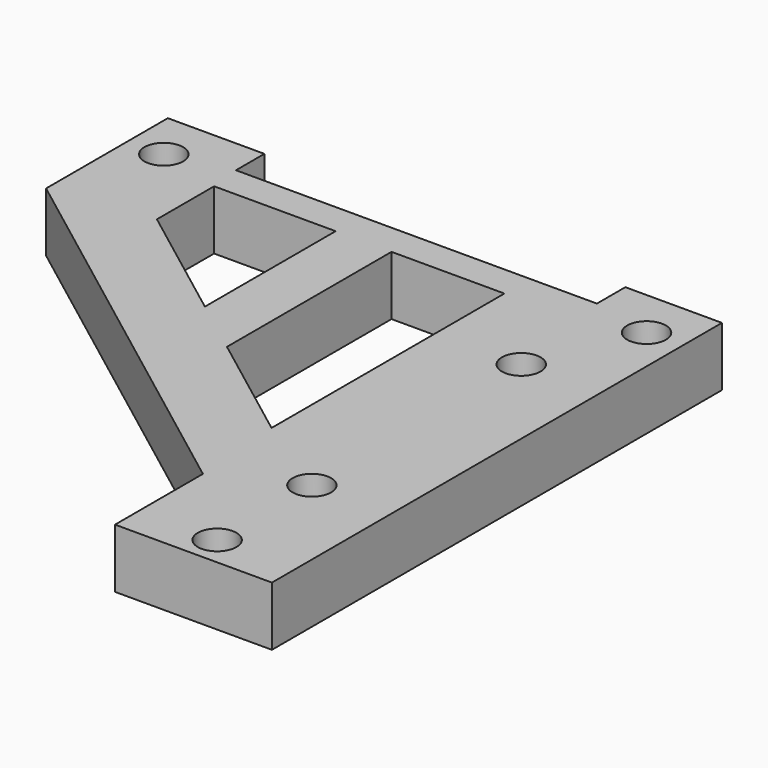
from build123d import *

# Parameters (mm, degrees)
F0_W      = 100.584
F0_H      = 98
F1_DEPTH  = 10
F3_D      = 6.528
F4_W      = 60.96
F4_H      = 6
F5_DEPTH  = 10
F7_DEPTH  = 10
F10_DEPTH = 10
F9_W      = 3.5
F9_H      = 98
F11_DEPTH = 10
F12_D     = 6.528
F13_W     = 26.5
F13_H     = 3
F14_DEPTH = 10
F16_DEPTH = 10


with BuildPart() as f1:
    # F0 (on Top) → F1 (new body)
    with BuildSketch(Plane.XY):
        with Locations((19.76898, -2.876867)):
            Rectangle(F0_W, F0_H)
    extrude(amount=F1_DEPTH)

    # F3 (through all)
    with Locations(Plane.XY.offset(10)):
        with Locations((-20.99802, 37.741133), (60.53598, 37.741133)):
            Hole(F3_D / 2)

    # F4 (on face) → F5 (cut, through all)
    with BuildSketch(Plane.XY.offset(10)):
        with Locations((19.76898, 43.123133)):
            Rectangle(F4_W, F4_H)
    extrude(amount=-F5_DEPTH, mode=Mode.SUBTRACT)

    # F6 (on face) → F7 (cut, through all)
    with BuildSketch(Plane.XY.offset(10)):
        Polygon((-30.52302, -51.876867), (40.06098, -51.876867), (40.06098, -30.325267), (-30.52302, 23.072742), align=None)
    extrude(amount=-F7_DEPTH, mode=Mode.SUBTRACT)

    # F9 (on face) → F10 (cut, through all)
    with BuildSketch(Plane.XY.offset(10)):
        Polygon((-30.52302, 23.072742), (-27.02302, 20.424932), (-27.02302, 46.123133), (-30.52302, 46.123133), align=None)
    extrude(amount=-F10_DEPTH, mode=Mode.SUBTRACT)

    # F9 (on face) → F11 (cut, through all)
    with BuildSketch(Plane.XY.offset(10)):
        with Locations((68.31098, -2.876867)):
            Rectangle(F9_W, F9_H)
    extrude(amount=-F11_DEPTH, mode=Mode.SUBTRACT)

    # F12 (through all)
    with Locations(Plane.XY.offset(10)):
        with Locations((53.31098, 20.323133), (53.31098, -43.876867), (53.31098, -23.876867)):
            Hole(F12_D / 2)

    # F13 (on face) → F14 (cut, through all)
    with BuildSketch(Plane.XY.offset(10)):
        with Locations((53.31098, -50.376867)):
            Rectangle(F13_W, F13_H)
    extrude(amount=-F14_DEPTH, mode=Mode.SUBTRACT)

    # F15 (on face) → F16 (cut, through all)
    with BuildSketch(Plane.XY.offset(10)):
        Polygon((10.423962, 34.742446), (-10.100968, 34.742446), (-10.100968, 22.670163), (10.423962, 7.1427), align=None)
        Polygon((38.931154, 34.742446), (19.865519, 34.742446), (19.865519, 0), (38.931154, -14.423481), align=None)
    extrude(amount=-F16_DEPTH, mode=Mode.SUBTRACT)


solid = f1.part
